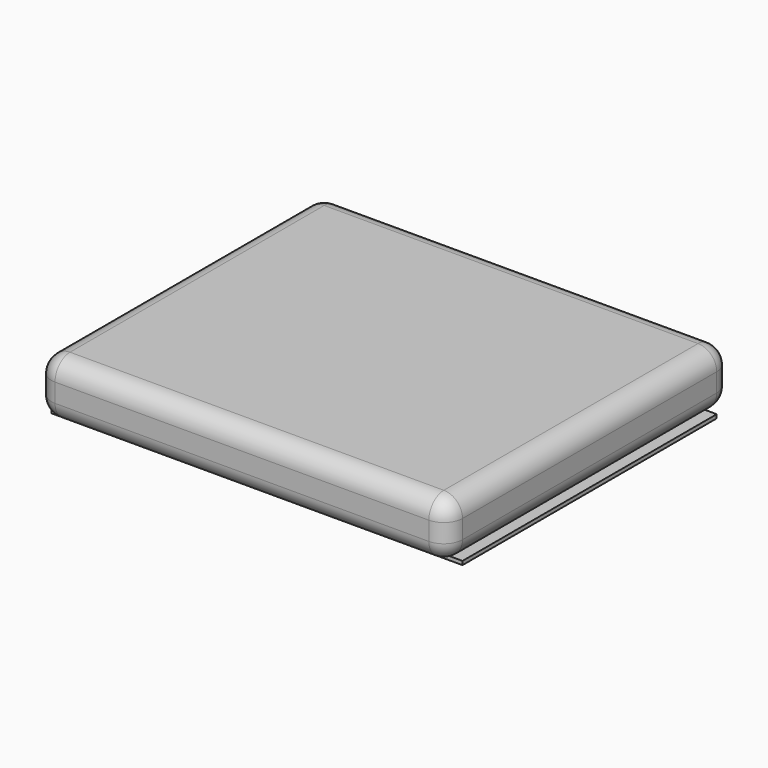
from build123d import *

# Parameters (mm, degrees)
F0_W     = 2200
F0_H     = 1700
F1_DEPTH = 20
F2_W     = 2200
F2_H     = 1900
F3_DEPTH = 300
F4_R     = 100


with BuildPart() as f1:
    # F0 (on Top) → F1 (new body)
    with BuildSketch(Plane.XY):
        Rectangle(F0_W, F0_H)
    extrude(amount=F1_DEPTH)


with BuildPart() as f3:
    # F2 (on face) → F3 (new body)
    with BuildSketch(Plane.XY.offset(20)):
        Rectangle(F2_W, F2_H)
    extrude(amount=F3_DEPTH)

    # F4
    f4_edges = [f3.edges().sort_by_distance(p)[0] for p in [
        (1100, 0, 320),
        (0, 950, 320),
        (-1100, 0, 320),
        (0, -950, 320),
        (1100, 0, 20),
        (0, 950, 20),
        (-1100, 0, 20),
        (0, -950, 20),
        (1100, -950, 170),
        (1100, 950, 170),
        (-1100, 950, 170),
        (-1100, -950, 170),
    ]]
    fillet(f4_edges, radius=F4_R)


solid = Compound([f1.part, f3.part])
